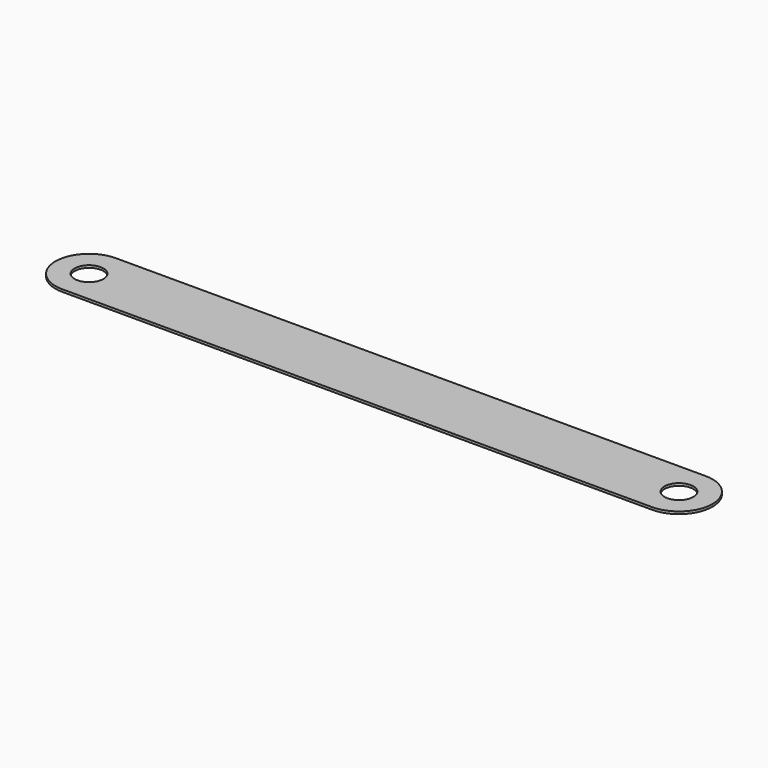
from build123d import *

# Parameters (mm, degrees)
F0_R     = 6
F1_DEPTH = 1


with BuildPart() as f1:
    # F0 (on Top) → F1 (new body)
    with BuildSketch(Plane.XY):
        with BuildLine():
            Line((123, 14), (-123, 14))
            ThreePointArc((-123, 14), (-132.899495, 9.899495), (-137, 0))
            ThreePointArc((-137, 0), (-132.899495, -9.899495), (-123, -14))
            Line((-123, -14), (123, -14))
            ThreePointArc((123, -14), (132.899495, -9.899495), (137, 0))
            ThreePointArc((137, 0), (132.899495, 9.899495), (123, 14))
        make_face()
        with Locations((-123, 0)):
            Circle(F0_R, mode=Mode.SUBTRACT)
        with Locations((123, 0)):
            Circle(F0_R, mode=Mode.SUBTRACT)
    extrude(amount=F1_DEPTH)


solid = f1.part
